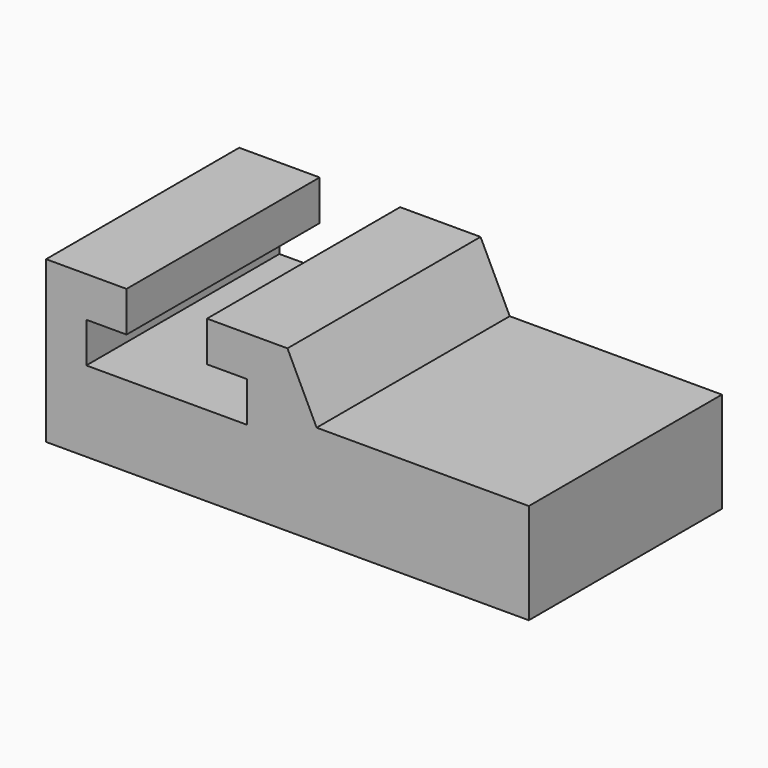
from build123d import *

# Parameters (mm, degrees)
F1_DEPTH = 76.2


with BuildPart() as f1:
    # F0 (on Front) → F1 (new body)
    with BuildSketch(Plane.XZ):
        Polygon((-76.2, 25.4), (-76.2, 0), (-63.5, 0), (76.2, 0), (76.2, 25.4), (76.2, 31.75), (9.209784, 31.75), (0, 50.8), (-25.4, 50.8), (-25.4, 38.1), (-12.7, 38.1), (-12.7, 25.4), (-63.5, 25.4), (-63.5, 38.1), (-50.8, 38.1), (-50.8, 50.8), (-76.2, 50.8), align=None)
    extrude(amount=F1_DEPTH)


solid = f1.part
